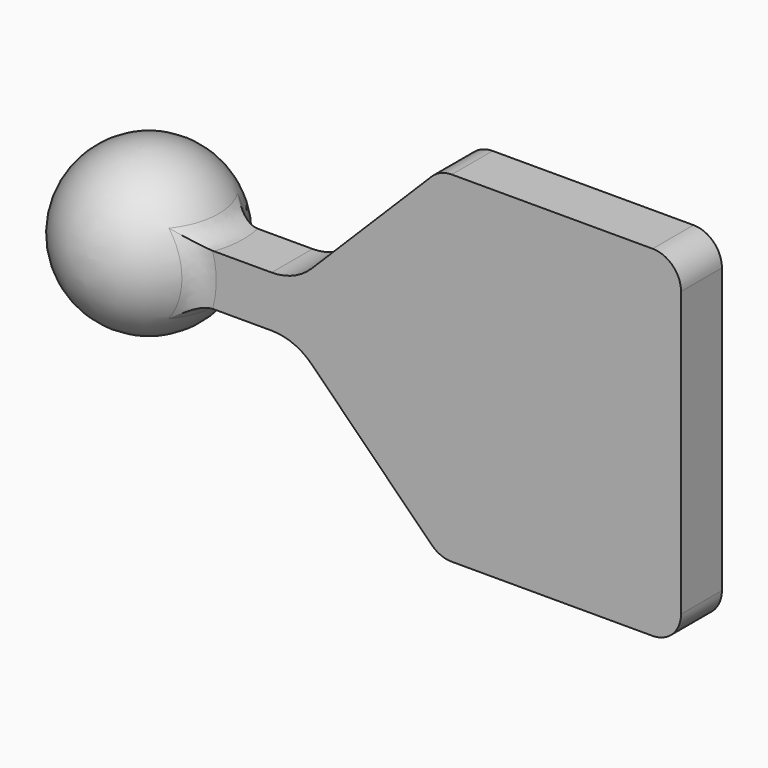
from build123d import *

# Parameters (mm, degrees)
F1_DEPTH = 9
F4_R     = 5
F5_R     = 5


with BuildPart() as f1:
    # F0 (on Front) → F1 (new body)
    with BuildSketch(Plane.XZ):
        with BuildLine():
            Line((35, -30), (35, 30))
            Line((35, 30), (-7.4289321881, 30))
            Line((-7.4289321881, 30), (-30, 7.4289321881))
            ThreePointArc((-30, 7.4289321881), (-33.2442334882, 5.2612046749), (-37.0710678119, 4.5))
            Line((-37.0710678119, 4.5), (-62.9289321881, 4.5))
            Line((-62.9289321881, 4.5), (-62.9289321881, -4.5))
            Line((-62.9289321881, -4.5), (-37.0710678119, -4.5))
            ThreePointArc((-37.0710678119, -4.5), (-33.2442334882, -5.2612046749), (-30, -7.4289321881))
            Line((-30, -7.4289321881), (-7.4289321881, -30))
            Line((-7.4289321881, -30), (35, -30))
        make_face()
    extrude(amount=F1_DEPTH)

    # F2 (on face) → F3 (revolve)
    with BuildSketch(Plane(origin=(-62.9289321881, 0, 0), x_dir=(0, -1, 0), z_dir=(-1, 0, 0))):
        with BuildLine():
            Line((3.679, -4.5), (3.679, -14.142))
            ThreePointArc((3.679, -14.142), (17.821, 0), (3.679, 14.142))
            Line((3.679, 14.142), (3.679, 4.5))
            Line((3.679, 4.5), (9, 4.5))
            Line((9, 4.5), (9, -4.5))
            Line((9, -4.5), (3.679, -4.5))
        make_face()
    revolve(axis=Axis((-62.9289321881, -3.679, 0), (0, 0, -1)))

    # F4
    f4_edges = [f1.edges().sort_by_distance(p)[0] for p in [
        (-49.550362, -4.550796, 4.5),
        (-49.273855, 0, 0),
        (-49.550362, -4.550796, -4.5),
        (-49.826142, -9, 0),
    ]]
    fillet(f4_edges, radius=F4_R)

    # F5
    f5_edges = [f1.edges().sort_by_distance(p)[0] for p in [
        (35, -4.5, -30),
        (35, -4.5, 30),
        (-7.428932, -4.5, 30),
        (-7.428932, -4.5, -30),
    ]]
    fillet(f5_edges, radius=F5_R)


solid = f1.part
